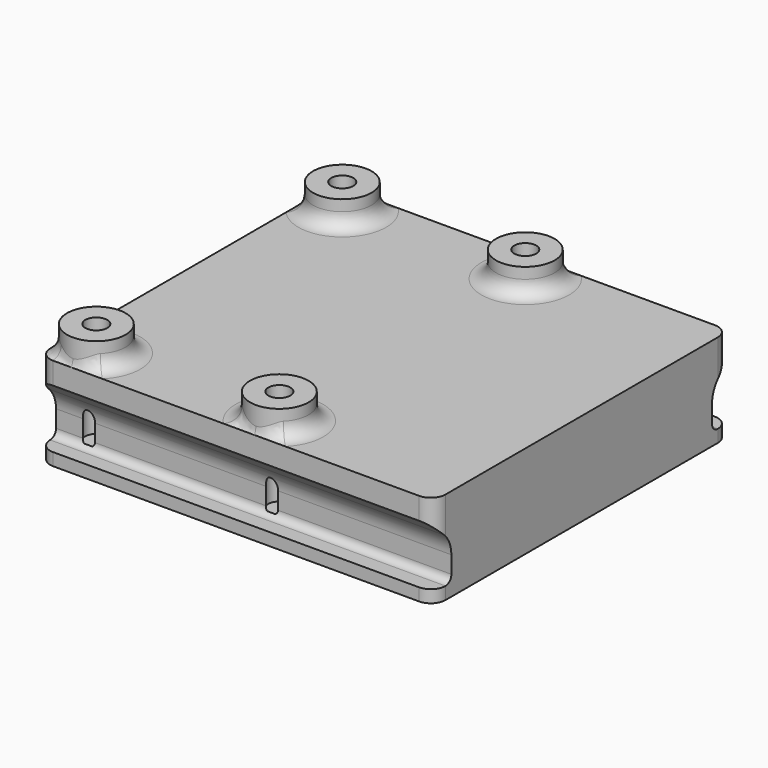
from build123d import *

# Parameters (mm, degrees)
PAD_DEPTH    = 27
SKETCH_R     = 2
SKETCH_R_2   = 0.75
PAD001_DEPTH = 1.75
FILLET_R     = 0.5
FILLET001_R  = 2
FILLET002_R  = 1
FILLET003_R  = 1
SKETCH003_R  = 0.75
POCKET_DEPTH = 7


with BuildPart() as part:
    # Sketch001 → Pad (new body)
    with BuildSketch(Plane.YZ):
        Polygon((0, 0), (-12.625, 0), (-12.625, 0.85), (-11.125, 0.85), (-11.125, 3.35), (-12.625, 4.85), (-12.625, 6.35), (0, 6.35), align=None)
    pad = extrude(amount=PAD_DEPTH)

    # Mirrored: Pad across Sketch001 V_Axis
    add(pad.mirror(Plane(origin=(0, 0, 0), x_dir=(1, 0, 0), z_dir=(0, 1, 0))))

    # Sketch → Pad001 (new body)
    with BuildSketch(Plane(origin=(0, 0, 6.35), x_dir=(0, -1, 0), z_dir=(0, 0, 1))):
        with Locations((-10.5, 14.75)):
            Circle(SKETCH_R)
        with Locations((-10.5, 14.75)):
            Circle(SKETCH_R_2, mode=Mode.SUBTRACT)
        with Locations((-10.5, 2.25)):
            Circle(SKETCH_R)
        with Locations((-10.5, 2.25)):
            Circle(SKETCH_R_2, mode=Mode.SUBTRACT)
        with Locations((10.5, 2.25)):
            Circle(SKETCH_R)
        with Locations((10.5, 2.25)):
            Circle(SKETCH_R_2, mode=Mode.SUBTRACT)
        with Locations((10.5, 14.75)):
            Circle(SKETCH_R)
        with Locations((10.5, 14.75)):
            Circle(SKETCH_R_2, mode=Mode.SUBTRACT)
    extrude(amount=PAD001_DEPTH)

    # Fillet
    fillet_edges = [part.edges().sort_by_distance(p)[0] for p in [
        (13.5, 11.125, 0.85),
        (13.5, -11.125, 0.85),
    ]]
    fillet(fillet_edges, radius=FILLET_R)

    # Fillet001
    fillet001_edges = [part.edges().sort_by_distance(p)[0] for p in [
        (13.5, 11.125, 3.35),
        (13.5, -11.125, 3.35),
    ]]
    fillet(fillet001_edges, radius=FILLET001_R)

    # Fillet002
    fillet002_edges = [part.edges().sort_by_distance(p)[0] for p in [
        (0, 12.625, 5.6),
        (0, 12.625, 0.425),
        (27, 12.625, 5.6),
        (27, 12.625, 0.425),
        (27, -12.625, 5.6),
        (27, -12.625, 0.425),
        (0, -12.625, 5.6),
        (0, -12.625, 0.425),
    ]]
    fillet(fillet002_edges, radius=FILLET002_R)

    # Fillet003
    fillet003_edges = [part.edges().sort_by_distance(p)[0] for p in [
        (2.25, -8.5, 6.35),
        (14.75, -8.5, 6.35),
        (2.25, 12.5, 6.35),
        (14.75, 12.5, 6.35),
    ]]
    fillet(fillet003_edges, radius=FILLET003_R)

    # Sketch003 → Pocket (cut)
    with BuildSketch(Plane(origin=(0, 0, 8.1), x_dir=(0, -1, 0), z_dir=(0, 0, 1))):
        with Locations((-10.5, 14.75)):
            Circle(SKETCH003_R)
        with Locations((10.5, 14.75)):
            Circle(SKETCH003_R)
        with Locations((10.5, 2.25)):
            Circle(SKETCH003_R)
        with Locations((-10.5, 2.25)):
            Circle(SKETCH003_R)
    extrude(amount=-POCKET_DEPTH, mode=Mode.SUBTRACT)


solid = part.part
